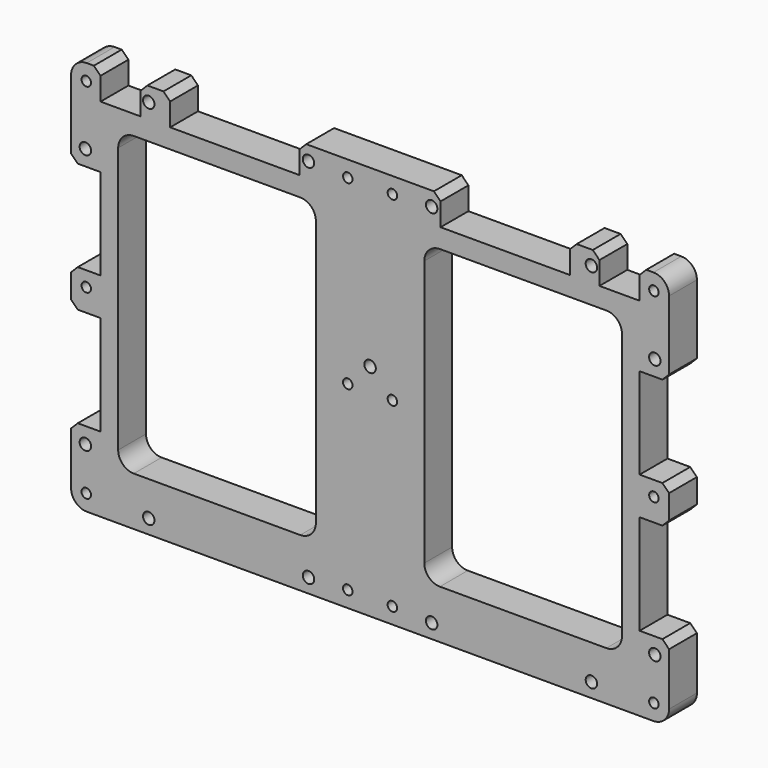
from build123d import *

# Parameters (mm, degrees)
F1_DEPTH = 9.906
F2_SIZE  = 1.905
F4_D     = 2.7051
F4_DEPTH = 8.73125
F4_TIP   = 0.8126940303
F6_D     = 3.2639


with BuildPart() as f1:
    # F0 (on Front) → F1 (new body)
    with BuildSketch(Plane.XZ):
        with BuildLine():
            ThreePointArc((-85.09, -51.7525), (-83.7880896424, -54.8955896424), (-80.645, -56.1975))
            Line((-80.645, -56.1975), (80.645, -56.1975))
            ThreePointArc((80.645, -56.1975), (83.7880896424, -54.8955896424), (85.09, -51.7525))
            Line((85.09, -51.7525), (85.09, -34.8615))
            Line((85.09, -34.8615), (76.708, -34.8615))
            Line((76.708, -34.8615), (76.708, -6.4135))
            Line((76.708, -6.4135), (85.09, -6.4135))
            Line((85.09, -6.4135), (85.09, 4.2545))
            Line((85.09, 4.2545), (76.708, 4.2545))
            Line((76.708, 4.2545), (76.708, 30.1625))
            Line((76.708, 30.1625), (85.09, 30.1625))
            Line((85.09, 30.1625), (85.09, 51.7525))
            ThreePointArc((85.09, 51.7525), (83.7880896424, 54.8955896424), (80.645, 56.1975))
            Line((80.645, 56.1975), (76.708, 56.1975))
            Line((76.708, 56.1975), (76.708, 47.8155))
            Line((76.708, 47.8155), (65.278, 47.8155))
            Line((65.278, 47.8155), (65.278, 56.1975))
            Line((65.278, 56.1975), (56.896, 56.1975))
            Line((56.896, 56.1975), (56.896, 47.8155))
            Line((56.896, 47.8155), (20.066, 47.8155))
            Line((20.066, 47.8155), (20.066, 56.1975))
            Line((20.066, 56.1975), (-20.066, 56.1975))
            Line((-20.066, 56.1975), (-20.066, 47.8155))
            Line((-20.066, 47.8155), (-56.896, 47.8155))
            Line((-56.896, 47.8155), (-56.896, 56.1975))
            Line((-56.896, 56.1975), (-65.278, 56.1975))
            Line((-65.278, 56.1975), (-65.278, 47.8155))
            Line((-65.278, 47.8155), (-76.708, 47.8155))
            Line((-76.708, 47.8155), (-76.708, 56.1975))
            Line((-76.708, 56.1975), (-80.645, 56.1975))
            ThreePointArc((-80.645, 56.1975), (-83.7880896424, 54.8955896424), (-85.09, 51.7525))
            Line((-85.09, 51.7525), (-85.09, 30.1625))
            Line((-85.09, 30.1625), (-76.708, 30.1625))
            Line((-76.708, 30.1625), (-76.708, 4.2545))
            Line((-76.708, 4.2545), (-85.09, 4.2545))
            Line((-85.09, 4.2545), (-85.09, -6.4135))
            Line((-85.09, -6.4135), (-76.708, -6.4135))
            Line((-76.708, -6.4135), (-76.708, -34.8615))
            Line((-76.708, -34.8615), (-85.09, -34.8615))
            Line((-85.09, -34.8615), (-85.09, -51.7525))
        make_face()
        with BuildLine():
            ThreePointArc((-15.4305, -37.846), (-16.7324103576, -40.9890896424), (-19.8755, -42.291))
            Line((-19.8755, -42.291), (-67.2465, -42.291))
            ThreePointArc((-67.2465, -42.291), (-70.3895896424, -40.9890896424), (-71.6915, -37.846))
            Line((-71.6915, -37.846), (-71.6915, 37.846))
            ThreePointArc((-71.6915, 37.846), (-70.3895896424, 40.9890896424), (-67.2465, 42.291))
            Line((-67.2465, 42.291), (-19.8755, 42.291))
            ThreePointArc((-19.8755, 42.291), (-16.7324103576, 40.9890896424), (-15.4305, 37.846))
            Line((-15.4305, 37.846), (-15.4305, -37.846))
        make_face(mode=Mode.SUBTRACT)
        with BuildLine():
            Line((71.6915, 37.846), (71.6915, -37.846))
            ThreePointArc((71.6915, -37.846), (70.3895896424, -40.9890896424), (67.2465, -42.291))
            Line((67.2465, -42.291), (19.8755, -42.291))
            ThreePointArc((19.8755, -42.291), (16.7324103576, -40.9890896424), (15.4305, -37.846))
            Line((15.4305, -37.846), (15.4305, 37.846))
            ThreePointArc((15.4305, 37.846), (16.7324103576, 40.9890896424), (19.8755, 42.291))
            Line((19.8755, 42.291), (67.2465, 42.291))
            ThreePointArc((67.2465, 42.291), (70.3895896424, 40.9890896424), (71.6915, 37.846))
        make_face(mode=Mode.SUBTRACT)
    extrude(amount=F1_DEPTH)

    # F2
    f2_edges = [f1.edges().sort_by_distance(p)[0] for p in [
        (-85.09, -4.953, -34.8615),
        (-85.09, -4.953, -6.4135),
        (-85.09, -4.953, 4.2545),
        (-85.09, -4.953, 30.1625),
        (-76.708, -4.953, 56.1975),
        (-65.278, -4.953, 56.1975),
        (-56.896, -4.953, 56.1975),
        (-20.066, -4.953, 56.1975),
        (20.066, -4.953, 56.1975),
        (65.278, -4.953, 56.1975),
        (56.896, -4.953, 56.1975),
        (76.708, -4.953, 56.1975),
        (85.09, -4.953, 30.1625),
        (85.09, -4.953, 4.2545),
        (85.09, -4.953, -6.4135),
        (85.09, -4.953, -34.8615),
    ]]
    chamfer(f2_edges, length=F2_SIZE)

    # F4
    with Locations(Plane.XZ.offset(9.906)):
        with Locations((-80.772, 51.6255), (-80.772, 0), (-80.772, -51.6255), (-6.35, -51.6255), (-6.35, 0), (-6.35, 51.6255), (6.35, 51.6255), (6.35, 0), (6.35, -51.6255), (80.772, -51.6255), (80.772, 0), (80.772, 51.6255)):
            Hole(F4_D / 2, depth=F4_DEPTH)
            with Locations((0, 0, -(F4_DEPTH + F4_TIP / 2))):  # 118° drill point
                Cone(0, F4_D / 2, F4_TIP, mode=Mode.SUBTRACT)

    # F6 (through all)
    with Locations(Plane.XZ.offset(9.906)):
        with Locations((-81.026, 34.6075), (-62.992, 52.1335), (-81.026, -39.4335), (-62.992, -52.1335), (-17.526, 52.1335), (-17.526, -52.1335), (0, 6.4135), (17.526, -52.1335), (62.992, -52.1335), (81.026, -39.4335), (81.026, 34.6075), (62.992, 52.1335), (17.526, 52.1335)):
            Hole(F6_D / 2)


solid = f1.part
